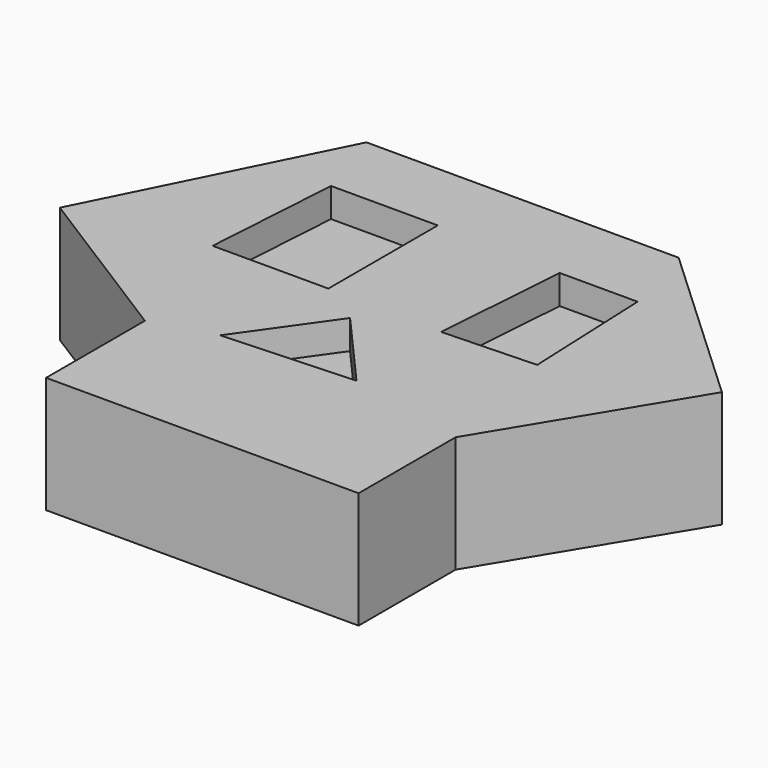
from build123d import *

# Parameters (mm, degrees)
PAD_DEPTH       = 20
POCKET_DEPTH    = 5
POCKET001_DEPTH = 5


with BuildPart() as part:
    # Sketch → Pad (new body)
    with BuildSketch(Plane.XY):
        Polygon((-30.124981, 30.287271), (23.4375, 30.287271), (52.34375, 3.437501), (32.656242, -29.0625), (32.656242, -49.867283), (-20.964462, -49.867283), (-20.964462, -28.68358), (-50.354469, -10.171695), align=None)
    extrude(amount=PAD_DEPTH)

    # Sketch001 (on Face10 of Pad) → Pocket (cut)
    with BuildSketch(Plane.XY.offset(20)):
        Polygon((-25.927446, 17.441479), (-7.606405, 17.441479), (-7.606405, -6.032361), (-27.454205, -6.032361), align=None)
        Polygon((13.768158, 16.868948), (27.127254, 16.868948), (28.081469, -5.841516), (12.050557, -6.414047), align=None)
    extrude(amount=-POCKET_DEPTH, mode=Mode.SUBTRACT)

    # Sketch002 (on Face5 of Pocket) → Pocket001 (cut)
    with BuildSketch(Plane.XY.offset(20)):
        Polygon((0, -10.881702), (-10.45758, -25.686424), (12.034194, -24.5476), align=None)
    extrude(amount=-POCKET001_DEPTH, mode=Mode.SUBTRACT)


solid = part.part
